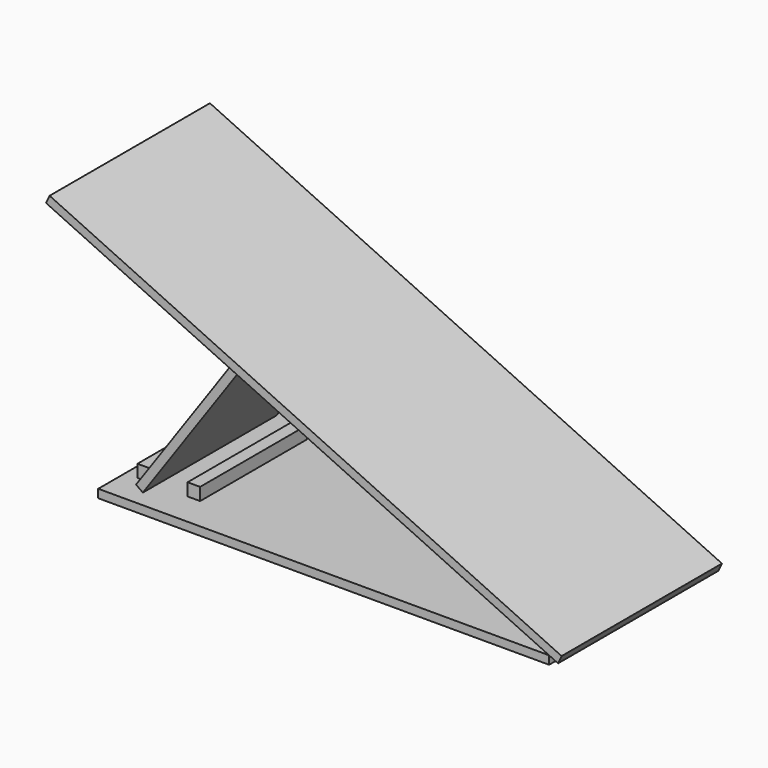
from build123d import *

# Parameters (mm, degrees)
F0_W          = 685.8
F0_H          = 304.8
F1_DEPTH      = 12.7
F3_DEPTH      = 152.4
F3_DEPTH_BACK = 152.4
F4_W          = 19.05
F4_H          = 203.2
F5_DEPTH      = 19.05
F7_DEPTH      = 127
F7_DEPTH_BACK = 127


with BuildPart() as f1:
    # F0 (on Top) → F1 (new body)
    with BuildSketch(Plane.XY):
        with Locations((-177.8483196557, 0)):
            Rectangle(F0_W, F0_H)
    extrude(amount=F1_DEPTH)

    # F4 (on face) → F5 (join)
    with BuildSketch(Plane.XY.offset(12.7)):
        with Locations((-492.1733196557, 0)):
            Rectangle(F4_W, F4_H)
        with Locations((-415.9733196557, 0)):
            Rectangle(F4_W, F4_H)
    extrude(amount=F5_DEPTH)


with BuildPart() as f3:
    # F2 (on Front) → F3 (new body, two sides)
    with BuildSketch(Plane.XZ) as f3_sk:
        Polygon((178.6692992896, 6.35), (184.0365512137, 17.8601088954), (-594.7194583733, 381), (-600.0867102974, 369.4898911046), align=None)
    extrude(amount=F3_DEPTH)
    extrude(f3_sk.sketch, amount=-F3_DEPTH_BACK)


with BuildPart() as f7:
    # F6 (on Front) → F7 (new body, two sides)
    with BuildSketch(Plane.XZ) as f7_sk:
        Polygon((-317.372261144, 235.224663919), (-327.7754921065, 242.5090846607), (-483.5889392202, 19.9844207417), (-473.1857082577, 12.7), align=None)
    extrude(amount=-F7_DEPTH)
    extrude(f7_sk.sketch, amount=F7_DEPTH_BACK)


solid = Compound([f1.part, f3.part, f7.part])
